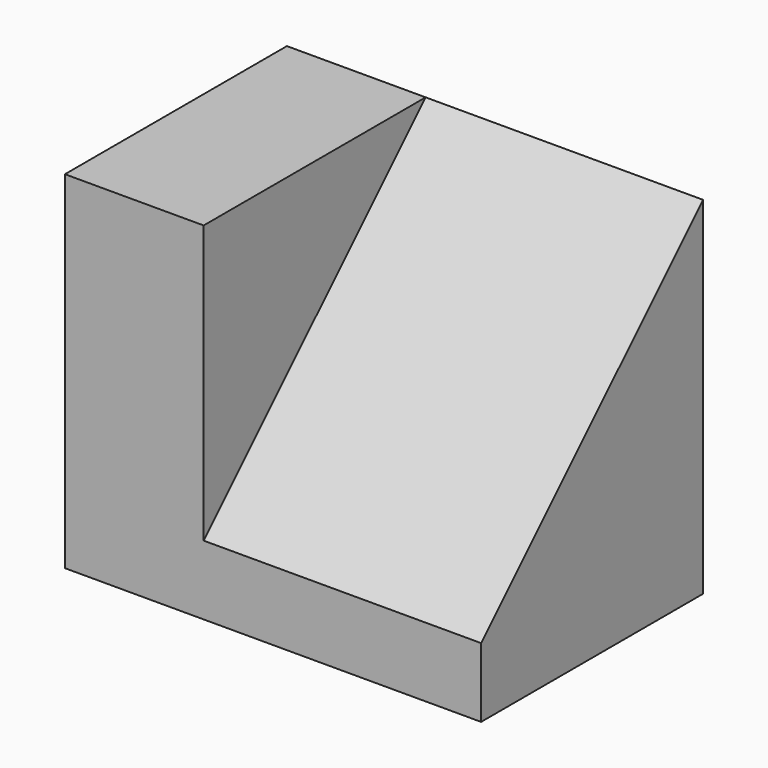
from build123d import *

# Parameters (mm, degrees)
F1_DEPTH = 25.4
F3_DEPTH = 25.4


with BuildPart() as f1:
    # F0 (on Front) → F1 (new body)
    with BuildSketch(Plane.XZ):
        Polygon((-12.7, 0), (0, 0), (25.4, 0), (25.4, 31.75), (-12.7, 31.75), align=None)
    extrude(amount=F1_DEPTH)

    # F2 (on face) → F3 (cut)
    with BuildSketch(Plane.YZ.offset(25.4)):
        Polygon((-25.4, 31.75), (-25.4, 6.35), (0, 31.75), align=None)
    extrude(amount=-F3_DEPTH, mode=Mode.SUBTRACT)


solid = f1.part
